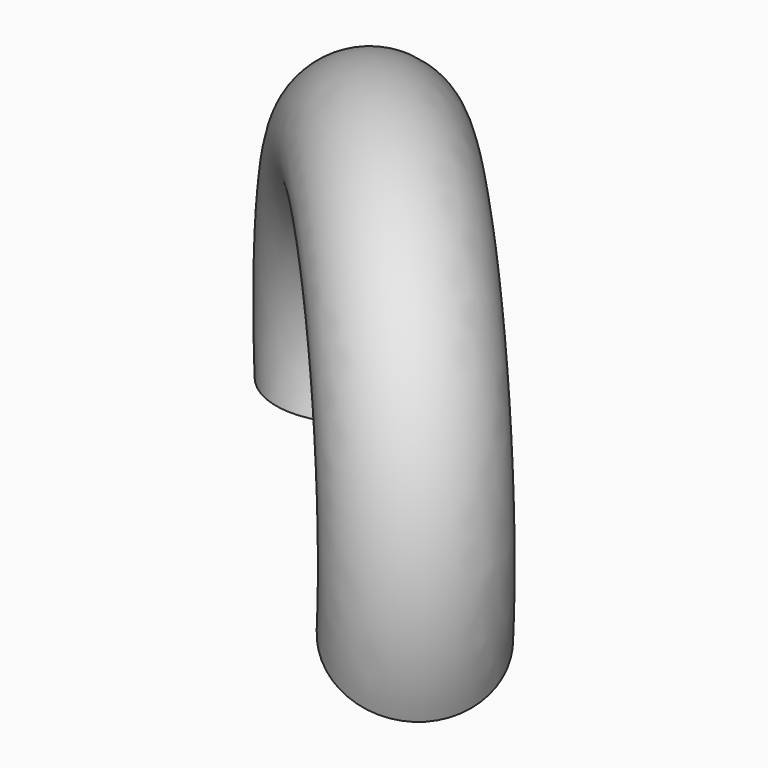
from build123d import *

# Parameters (mm, degrees)
F1_R = 12.7


with BuildPart() as f5:
    # F5: sweep along a path in F4
    with BuildLine(Plane(origin=(0, 0, 0), x_dir=(0.707107, -0.707107, 0), z_dir=(-0.707107, -0.707107, 0))) as f5_path:
        ThreePointArc((0, 0), (-35.688501, 47.835767), (-71.377002, 0))
    # F1 (on Top) → F5 (sweep)
    with BuildSketch(Plane.XY):
        with Locations((-50.8, 50.8)):
            Circle(F1_R)
    sweep(path=f5_path.line)


solid = f5.part
